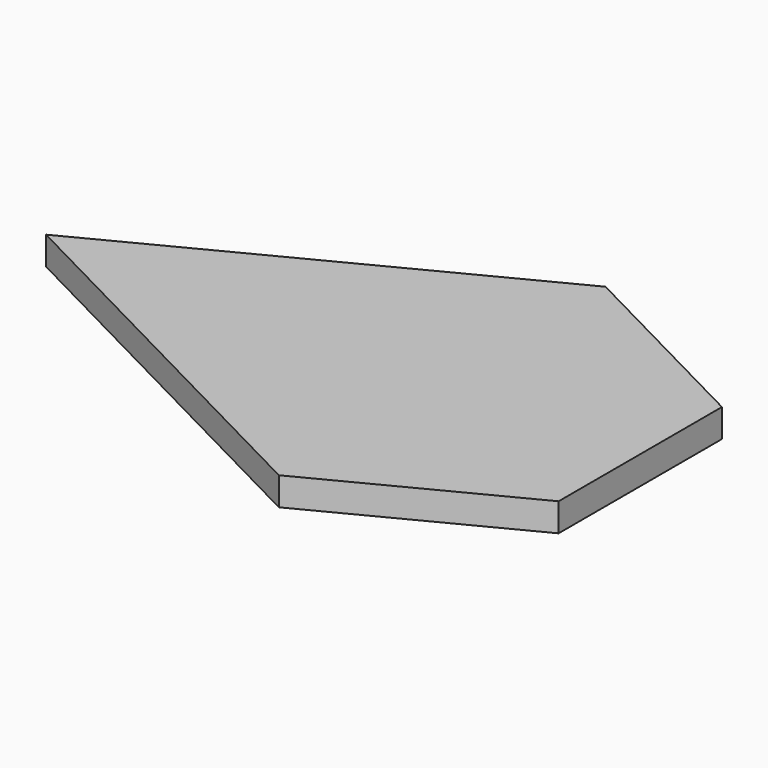
from build123d import *

# Parameters (mm, degrees)
F0_W     = 400
F0_H     = 350
F1_DEPTH = 19
F3_DEPTH = 19.001
F4_DEPTH = 19.001


with BuildPart() as f1:
    # F0 (on Top) → F1 (new body)
    with BuildSketch(Plane.XY):
        Rectangle(F0_W, F0_H)
    extrude(amount=F1_DEPTH)

    # F2 (on face) → F3 (cut, through all)
    with BuildSketch(Plane.XY.offset(19)):
        Polygon((66.666667, -137.436854), (-200, 0), (-200, -175), (200, -175), (200, -68.718427), align=None)
    extrude(amount=-F3_DEPTH, mode=Mode.SUBTRACT)

    # F2 (on face) → F4 (cut, through all)
    with BuildSketch(Plane.XY.offset(19)):
        Polygon((-200, 175), (-200, 0), (66.666667, 137.436854), (200, 68.718427), (200, 175), align=None)
    extrude(amount=-F4_DEPTH, mode=Mode.SUBTRACT)


solid = f1.part
